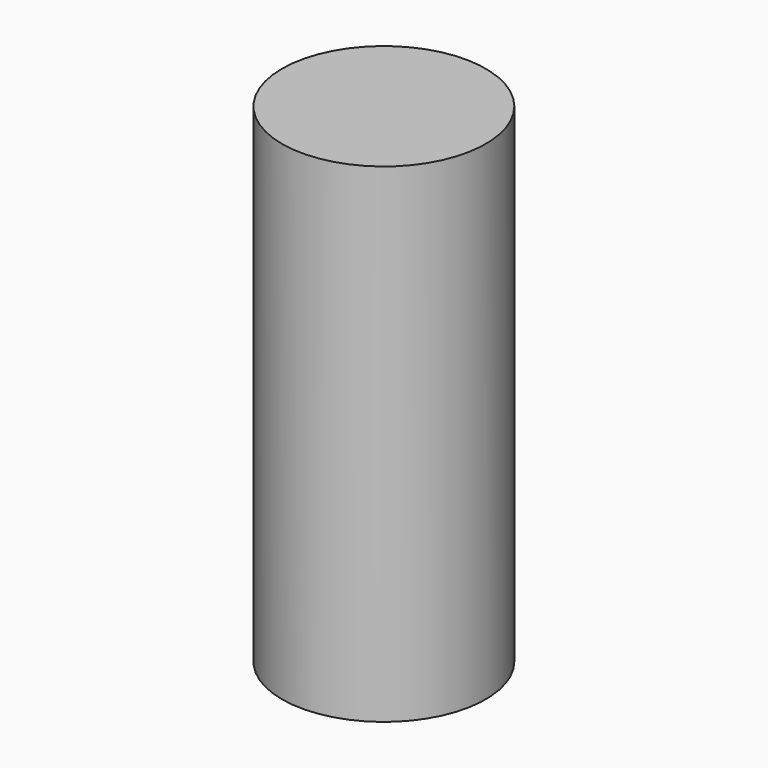
from build123d import *

# Parameters (mm, degrees)
F0_W     = 7.9375
F0_H     = 38.1
F2_W     = 9.525
F2_H     = 9.525
F3_DEPTH = 11.1125


with BuildPart() as f1:
    # F0 (on Front) → F1 (revolve)
    with BuildSketch(Plane.XZ):
        with Locations((-25.365302, 3.109904)):
            Rectangle(F0_W, F0_H)
    revolve(axis=Axis((-21.396552, 0, 3.109904), (0, 0, -1)))

    # F2 (on face) → F3 (cut)
    with BuildSketch(Plane(origin=(0, 0, -15.940096), x_dir=(1, 0, 0), z_dir=(0, 0, -1))):
        with Locations((-21.396552, 0)):
            Rectangle(F2_W, F2_H)
    extrude(amount=-F3_DEPTH, mode=Mode.SUBTRACT)


solid = f1.part
